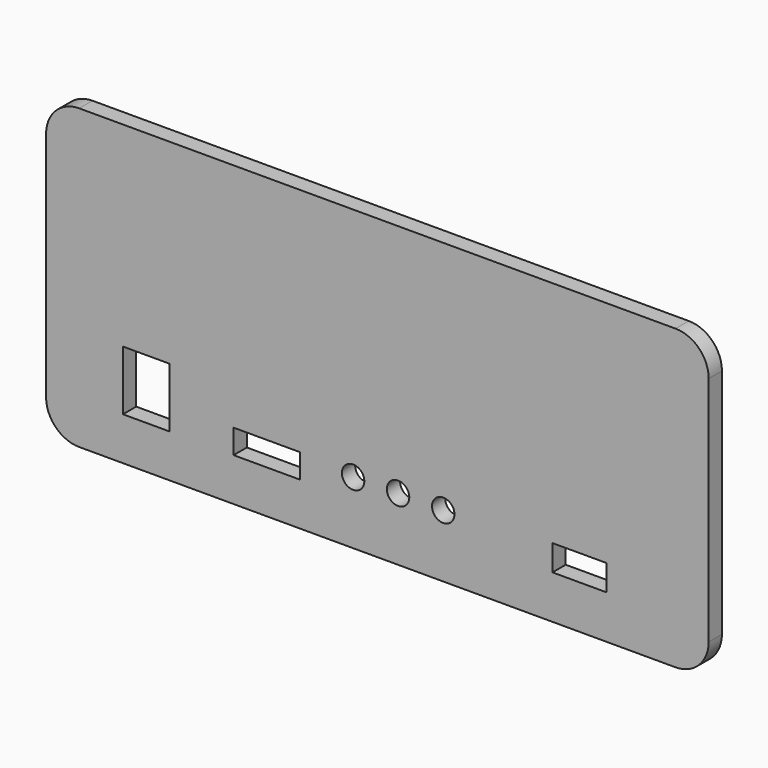
from build123d import *

# Parameters (mm, degrees)
F1_DEPTH = 3.175
F2_W     = 8.9662
F2_H     = 11.43
F2_W_2   = 12.764952
F2_H_2   = 4.638044
F2_R     = 2.150647
F2_W_3   = 10.33394
F2_H_3   = 4.94447
F3_DEPTH = 25.4


with BuildPart() as f1:
    # F0 (on Front) → F1 (new body)
    with BuildSketch(Plane.XZ):
        with BuildLine():
            ThreePointArc((63.5, 22.225), (61.640128, 26.715128), (57.15, 28.575))
            Line((57.15, 28.575), (-57.15, 28.575))
            ThreePointArc((-57.15, 28.575), (-61.640128, 26.715128), (-63.5, 22.225))
            Line((-63.5, 22.225), (-63.5, -22.225))
            ThreePointArc((-63.5, -22.225), (-61.640128, -26.715128), (-57.15, -28.575))
            Line((-57.15, -28.575), (57.15, -28.575))
            ThreePointArc((57.15, -28.575), (61.640128, -26.715128), (63.5, -22.225))
            Line((63.5, -22.225), (63.5, 22.225))
        make_face()
    extrude(amount=F1_DEPTH)

    # F2 (on face) → F3 (cut)
    with BuildSketch(Plane.XZ.offset(3.175)):
        with Locations((-44.2849, -14.605)):
            Rectangle(F2_W, F2_H)
        with Locations((-21.180364, -18.000978)):
            Rectangle(F2_W_2, F2_H_2)
        with Locations((-4.65206, -16.583629)):
            Circle(F2_R)
        with Locations((3.967021, -16.501367)):
            Circle(F2_R)
        with Locations((12.624987, -16.556866)):
            Circle(F2_R)
        with Locations((38.731862, -17.752491)):
            Rectangle(F2_W_3, F2_H_3)
    extrude(amount=-F3_DEPTH, mode=Mode.SUBTRACT)


solid = f1.part
